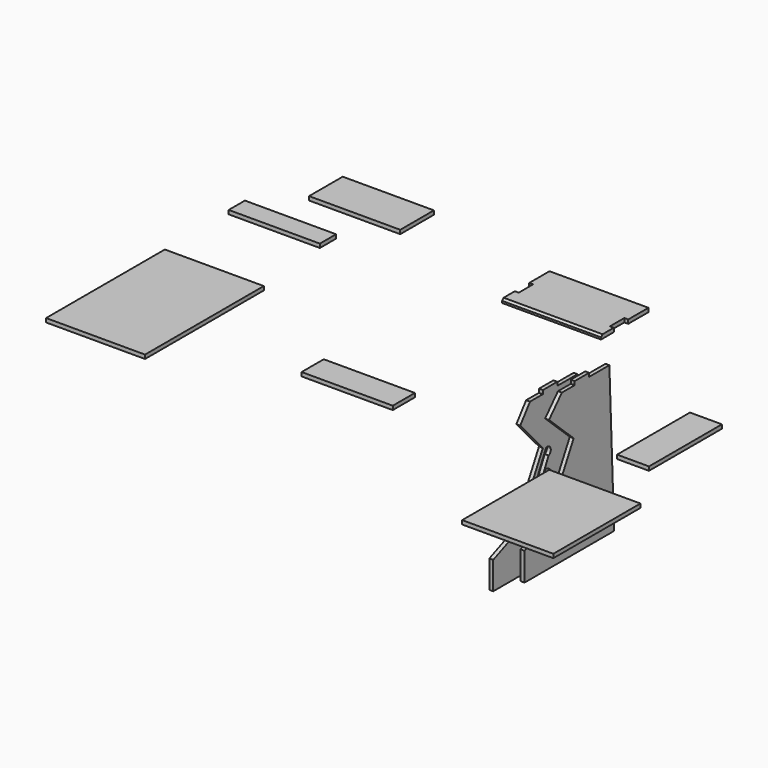
from build123d import *

# Parameters (mm, degrees)
F0_W      = 46.4
F0_H      = 9.322
F1_DEPTH  = 10
F5_DEPTH  = 10
F7_SIZE   = 5
F9_W      = 46.4000000058
F9_H      = 9.3215752476
F10_DEPTH = 10
F11_W     = 254
F11_H     = 381
F12_DEPTH = 10
F13_W     = 234
F13_H     = 52
F14_DEPTH = 10
F15_W     = 234
F15_H     = 108
F16_DEPTH = 10
F17_W     = 82
F17_H     = 234
F18_DEPTH = 10
F19_W     = 234
F19_H     = 71
F20_DEPTH = 10
F21_W     = 234
F21_H     = 279.4
F22_DEPTH = 10


with BuildPart() as f1:
    # F0 (on Right) → F1 (new body)
    with BuildSketch(Plane.YZ):
        Polygon((-64.796539762, -182.3895969412), (-57.5082729275, -182.3895969412), (221.8917270725, -182.3895969412), (205.7584536639, 198.2686717056), (140.7584536639, 198.2686717056), (94.3584536639, 198.2686717056), (53.3584536639, 198.2686717056), (21.9498726075, 156.8259276359), (94.605094511, 76.9183639755), (10.9450170771, -79.9695942742), (-64.796539762, -111.3895969412), align=None)
        Polygon((49.6052874287, -116.2525428597), (36.9012057781, -108.7284162641), (104.0113260207, 26.8646163094), (117.2069395227, 20.3336081006), align=None, mode=Mode.SUBTRACT)
        with BuildLine():
            ThreePointArc((104.7540009022, 73.150858283), (119.2531366096, 66.7778584138), (112.8801367404, 52.2787227063))
            Line((112.8801367404, 52.2787227063), (34.4274975359, -107.2769835591))
            ThreePointArc((34.4274975359, -107.2769835591), (21.6595235328, -111.0791874475), (18.863433972, -98.0538353324))
            Line((18.863433972, -98.0538353324), (104.7540009022, 73.150858283))
        make_face(mode=Mode.SUBTRACT)
        with Locations((117.5584536639, 202.9296717056)):
            Rectangle(F0_W, F0_H)
    extrude(amount=F1_DEPTH)


with BuildPart() as f5:
    # F4 (on offset) → F5 (new body)
    with BuildSketch(Plane.XY.offset(205)):
        Polygon((-39.0006619062, 494.596632719), (-293.0006619062, 494.596632719), (-293.0006619062, 429.596632719), (-283.0006619062, 429.596632719), (-283.0006619062, 383.392881012), (-293.0006619062, 383.392881012), (-293.0006619062, 342.392881012), (-39.0612547696, 342.392881012), (-39.0612547696, 383.392881012), (-49.0612547696, 383.392881012), (-49.0612547696, 429.596632719), (-39.0612547696, 429.596632719), align=None)
    extrude(amount=F5_DEPTH)

    # F7
    f7_edges = [f5.edges().sort_by_distance(p)[0] for p in [
        (-166.030958, 342.392881, 215),
    ]]
    chamfer(f7_edges, length=F7_SIZE)


with BuildPart() as f10:
    # F9 (on offset) → F10 (new body)
    with BuildSketch(Plane.YZ.offset(35)):
        Polygon((149.5919942923, 87.671287306), (65.9295212644, -69.2153934763), (-7.923, -102.4840739864), (-7.923, -174.4840739864), (0, -174.4840739864), (279.4, -174.4840739864), (264.1758101478, 206.2116365796), (199.1758101478, 206.2116365797), (152.775810142, 206.2116365797), (111.775810142, 206.2116365648), (70.5419946621, 161.2586337622), align=None)
        with Locations((175.9758101449, 210.8724242035)):
            Rectangle(F9_W, F9_H)
    extrude(amount=F10_DEPTH)


with BuildPart() as f12:
    # F11 (on offset) → F12 (new body)
    with BuildSketch(Plane.XY.offset(215)):
        with Locations((-814.9448533747, -118.8999935985)):
            Rectangle(F11_W, F11_H)
    extrude(amount=F12_DEPTH)


with BuildPart() as f14:
    # F13 (on offset) → F14 (new body)
    with BuildSketch(Plane.XY.offset(215)):
        with Locations((-832.2524428368, 311.6594097933)):
            Rectangle(F13_W, F13_H)
    extrude(amount=F14_DEPTH)


with BuildPart() as f16:
    # F15 (on offset) → F16 (new body)
    with BuildSketch(Plane.XY.offset(215)):
        with Locations((-743.942886591, 487.1286771533)):
            Rectangle(F15_W, F15_H)
    extrude(amount=F16_DEPTH)


with BuildPart() as f18:
    # F17 (on offset) → F18 (new body)
    with BuildSketch(Plane.XY.offset(205)):
        with Locations((350.9838730097, 74.5187658328)):
            Rectangle(F17_W, F17_H)
    extrude(amount=F18_DEPTH)


with BuildPart() as f20:
    # F19 (on offset) → F20 (new body)
    with BuildSketch(Plane.XY.offset(205)):
        with Locations((-290.6577438116, -121.9697131045)):
            Rectangle(F19_W, F19_H)
    extrude(amount=F20_DEPTH)


with BuildPart() as f22:
    # F21 (on offset) → F22 (new body)
    with BuildSketch(Plane.XY.offset(205)):
        with Locations((362.1622659266, -318.5673205169)):
            Rectangle(F21_W, F21_H)
    extrude(amount=F22_DEPTH)


solid = Compound([f1.part, f5.part, f10.part, f12.part, f14.part, f16.part, f18.part, f20.part, f22.part])
